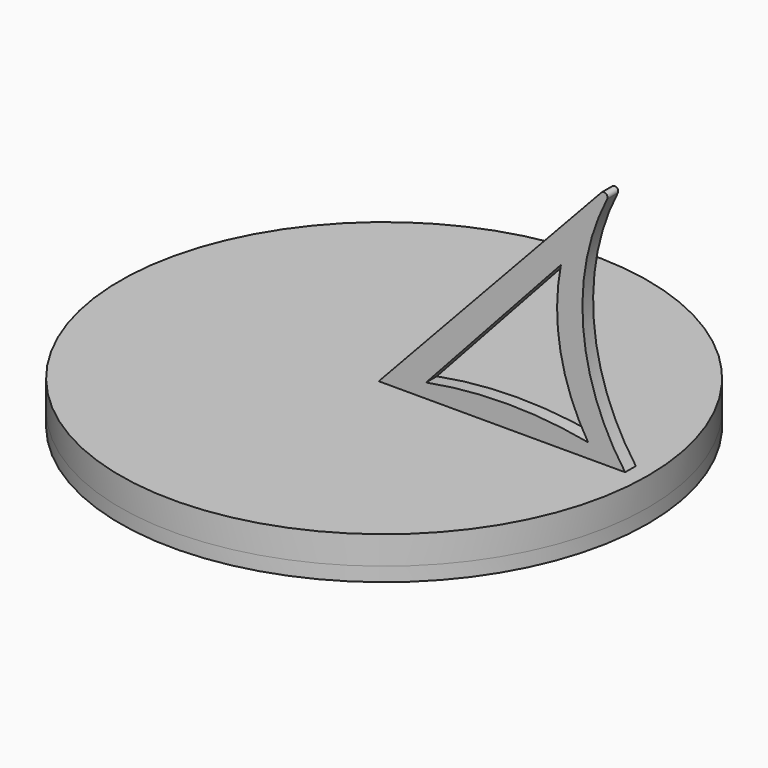
from build123d import *

# Parameters (mm, degrees)
F0_R     = 75
F0_W     = 60
F0_H     = 3.8
F1_DEPTH = 4
F2_R     = 75
F3_DEPTH = 4
F4_R     = 75
F4_W     = 26
F4_H     = 10
F5_DEPTH = 4
F7_DEPTH = 3.8


with BuildPart() as f1:
    # F0 (on Top) → F1 (new body)
    with BuildSketch(Plane.XY):
        Circle(F0_R)
        with Locations((30, 0)):
            Rectangle(F0_W, F0_H, mode=Mode.SUBTRACT)
    extrude(amount=F1_DEPTH)

    # F2 (on face) → F3 (join)
    with BuildSketch(Plane(origin=(0, 0, 0), x_dir=(1, 0, 0), z_dir=(0, 0, -1))):
        Circle(F2_R)
        Polygon((15, 40), (15, 1.9), (60, 1.9), (60, -1.9), (15, -1.9), (15, -40), (-15, -40), (-15, 40), align=None, mode=Mode.SUBTRACT)
    extrude(amount=F3_DEPTH)


with BuildPart() as f5:
    # F4 (on face) → F5 (new body)
    with BuildSketch(Plane(origin=(0, 0, -4), x_dir=(1, 0, 0), z_dir=(0, 0, -1))):
        Circle(F4_R)
        with Locations((0, -25)):
            Rectangle(F4_W, F4_H, mode=Mode.SUBTRACT)
        with Locations((0, 25)):
            Rectangle(F4_W, F4_H, mode=Mode.SUBTRACT)
    extrude(amount=F5_DEPTH)


with BuildPart() as f7:
    # F6 (on face) → F7 (new body)
    with BuildSketch(Plane.XZ.offset(-1.9)):
        with BuildLine():
            Line((0, 4), (0, 0))
            Line((0, 0), (15, 0))
            Line((15, 0), (15, -4))
            Line((15, -4), (60, -4))
            Line((60, -4), (60, 4))
            Line((60, 4), (70, 4))
            ThreePointArc((70, 4), (58.053621, 36.6026), (64.886219, 70.646118))
            ThreePointArc((64.886219, 70.646118), (64.570248, 71.92003), (63.264831, 71.783747))
            Line((63.264831, 71.783747), (0, 4))
        make_face()
        with BuildLine():
            Line((13.451046, 8.066386), (51.752388, 49.930651))
            ThreePointArc((51.752388, 49.930651), (51.625796, 28.263434), (59.472039, 8.066386))
            ThreePointArc((59.472039, 8.066386), (36.461543, 10.230592), (13.451046, 8.066386))
        make_face(mode=Mode.SUBTRACT)
    extrude(amount=F7_DEPTH)


solid = Compound([f1.part, f5.part, f7.part])
